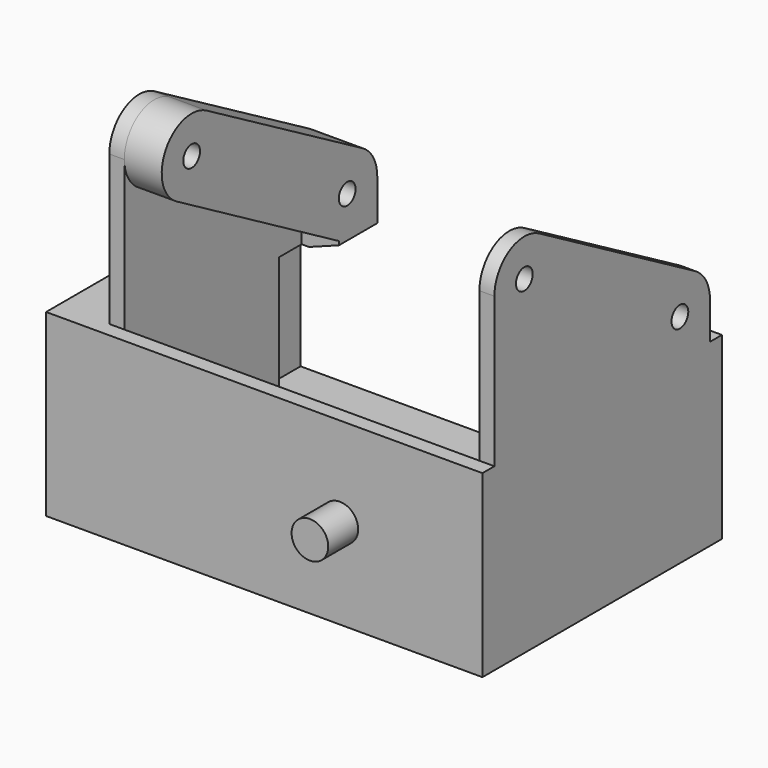
from build123d import *

# Parameters (mm, degrees)
SKETCH_W        = 54.3
SKETCH_H        = 38
PAD_DEPTH       = 2
SKETCH001_W     = 54.3
SKETCH001_H     = 2
PAD001_DEPTH    = 22
SKETCH002_R     = 2.45
PAD002_DEPTH    = 5
SKETCH003_W     = 40
SKETCH003_H     = 22
PAD003_DEPTH    = 2
SKETCH004_W     = 40
SKETCH004_H     = 22
PAD004_DEPTH    = 2
SKETCH005_W     = 6.85
SKETCH005_H     = 15
PAD005_DEPTH    = 8
SKETCH006_R     = 1.4
POCKET_DEPTH    = 15
FILLET_R        = 3
FILLET001_R     = 2
SKETCH007_W     = 6.85
SKETCH007_H     = 25.8
PAD006_DEPTH    = 20
SKETCH008_R     = 1.4
POCKET001_DEPTH = 15
PAD007_DEPTH    = 2
SKETCH010_R     = 1.4
PAD008_DEPTH    = 2
SKETCH011_R     = 1.4
PAD009_DEPTH    = 2
SKETCH012_R     = 1.4
PAD010_DEPTH    = 5
SKETCH013_W     = 6.395784
SKETCH013_H     = 2
PAD011_DEPTH    = 5
CHAMFER_SIZE2   = 1.5
CHAMFER_SIZE    = 4


with BuildPart() as part:
    # Sketch → Pad (new body)
    with BuildSketch(Plane.XY):
        with Locations((27.15, 21)):
            Rectangle(SKETCH_W, SKETCH_H)
    extrude(amount=PAD_DEPTH)

    # Sketch001 → Pad001 (join)
    with BuildSketch(Plane.XY):
        with Locations((27.15, 1)):
            Rectangle(SKETCH001_W, SKETCH001_H)
    extrude(amount=PAD001_DEPTH)

    # Sketch002 → Pad002 (join)
    with BuildSketch(Plane.XZ):
        with Locations((37.25, 12)):
            Circle(SKETCH002_R)
    extrude(amount=PAD002_DEPTH)

    # Sketch003 (on Face2 of Pad002) → Pad003 (join)
    with BuildSketch(Plane(origin=(0, 0, 0), x_dir=(0, -1, 0), z_dir=(-1, 0, 0))):
        with Locations((-20, 11)):
            Rectangle(SKETCH003_W, SKETCH003_H)
    extrude(amount=PAD003_DEPTH)

    # Sketch004 (on Face3 of Pad003) → Pad004 (join)
    with BuildSketch(Plane.YZ.offset(54.3)):
        with Locations((20, 11)):
            Rectangle(SKETCH004_W, SKETCH004_H)
    extrude(amount=PAD004_DEPTH)

    # Sketch005 (on Face5 of Pad004) → Pad005 (join)
    with BuildSketch(Plane.XY.offset(2)):
        with Locations((50.875, 20.3)):
            Rectangle(SKETCH005_W, SKETCH005_H)
    extrude(amount=PAD005_DEPTH)

    # Sketch006 (on Face15 of Pad005) → Pocket (cut)
    with BuildSketch(Plane(origin=(0, 27.8, 0), x_dir=(-1, 0, 0), z_dir=(0, 1, 0))):
        with Locations((-51.3, 7)):
            Circle(SKETCH006_R)
    extrude(amount=-POCKET_DEPTH, mode=Mode.SUBTRACT)

    # Fillet
    fillet_edges = [part.edges().sort_by_distance(p)[0] for p in [
        (47.45, 20.3, 10),
    ]]
    fillet(fillet_edges, radius=FILLET_R)

    # Fillet001
    fillet001_edges = [part.edges().sort_by_distance(p)[0] for p in [
        (52.375, 12.8, 10),
    ]]
    fillet(fillet001_edges, radius=FILLET001_R)

    # Sketch007 (on Face5 of Fillet001) → Pad006 (join)
    with BuildSketch(Plane.XY.offset(2)):
        with Locations((3.425, 14.9)):
            Rectangle(SKETCH007_W, SKETCH007_H)
    extrude(amount=PAD006_DEPTH)

    # Sketch008 (on Face14 of Pad006) → Pocket001 (cut)
    with BuildSketch(Plane(origin=(0, 27.8, 0), x_dir=(-1, 0, 0), z_dir=(0, 1, 0))):
        with Locations((-3, 7)):
            Circle(SKETCH008_R)
        with Locations((-3, 17)):
            Circle(SKETCH008_R)
    extrude(amount=-POCKET001_DEPTH, mode=Mode.SUBTRACT)

    # Sketch009 (on Face21 of Pocket001) → Pad007 (join)
    with BuildSketch(Plane.XY.offset(22)):
        Polygon((54.3, 2), (54.3, 40), (56.3, 40), (56.3, 0), (-2, 0), (-2, 40), (6.85, 40), (6.85, 2), align=None)
    extrude(amount=PAD007_DEPTH)

    # Sketch010 (on Face22 of Pad007) → Pad008 (join)
    with BuildSketch(Plane.YZ.offset(6.85)):
        with BuildLine():
            Line((2, 24), (38, 24))
            Line((38, 29), (38, 24))
            ThreePointArc((38, 29), (37.326745, 31.511013), (35.487593, 33.348396))
            Line((35.487593, 33.348396), (9.497223, 48.331729))
            ThreePointArc((9.497223, 48.331729), (4.498612, 48.329325), (2, 44))
            Line((2, 44), (2, 24))
        make_face()
        with Locations((7, 44)):
            Circle(SKETCH010_R, mode=Mode.SUBTRACT)
        with Locations((32.980762, 29)):
            Circle(SKETCH010_R, mode=Mode.SUBTRACT)
    extrude(amount=-PAD008_DEPTH)

    # Sketch011 (on Face20 of Pad008) → Pad009 (join)
    with BuildSketch(Plane(origin=(54.3, 0, 0), x_dir=(0, -1, 0), z_dir=(-1, 0, 0))):
        with BuildLine():
            Line((-38, 24), (-38, 29))
            ThreePointArc((-35.487593, 33.348396), (-37.326745, 31.511013), (-38, 29))
            Line((-35.487593, 33.348396), (-9.497223, 48.331729))
            ThreePointArc((-2, 44), (-4.498612, 48.329325), (-9.497223, 48.331729))
            Line((-2, 44), (-2, 24))
            Line((-2, 24), (-38, 24))
        make_face()
        with Locations((-7, 44)):
            Circle(SKETCH011_R, mode=Mode.SUBTRACT)
        with Locations((-32.980762, 29)):
            Circle(SKETCH011_R, mode=Mode.SUBTRACT)
    extrude(amount=-PAD009_DEPTH)

    # Sketch012 (on Face35 of Pad009) → Pad010 (join)
    with BuildSketch(Plane.YZ.offset(6.85)):
        with BuildLine():
            Line((38, 29), (38, 24))
            Line((38, 24), (31.604216, 24))
            Line((30.473931, 24.651604), (31.604216, 24))
            Line((4.502799, 39.668258), (30.473931, 24.651604))
            ThreePointArc((9.497223, 48.331729), (2.668265, 46.497212), (4.502799, 39.668258))
            Line((9.497223, 48.331729), (35.487593, 33.348396))
            ThreePointArc((38, 29), (37.326745, 31.511013), (35.487593, 33.348396))
        make_face()
        with Locations((7, 44)):
            Circle(SKETCH012_R, mode=Mode.SUBTRACT)
        with Locations((32.980762, 29)):
            Circle(SKETCH012_R, mode=Mode.SUBTRACT)
    extrude(amount=PAD010_DEPTH)

    # Sketch013 (on Face22 of Pad010) → Pad011 (join)
    with BuildSketch(Plane.YZ.offset(6.85)):
        with Locations((34.802108, 23)):
            Rectangle(SKETCH013_W, SKETCH013_H)
    extrude(amount=PAD011_DEPTH)

    # Chamfer
    chamfer_edges = [part.edges().sort_by_distance(p)[0] for p in [
        (11.85, 34.802108, 22),
    ]]
    chamfer_side = part.faces().sort_by_distance((9.35, 34.802108, 22))[0]
    chamfer(chamfer_edges, length=CHAMFER_SIZE, length2=CHAMFER_SIZE2, reference=chamfer_side)


solid = part.part
